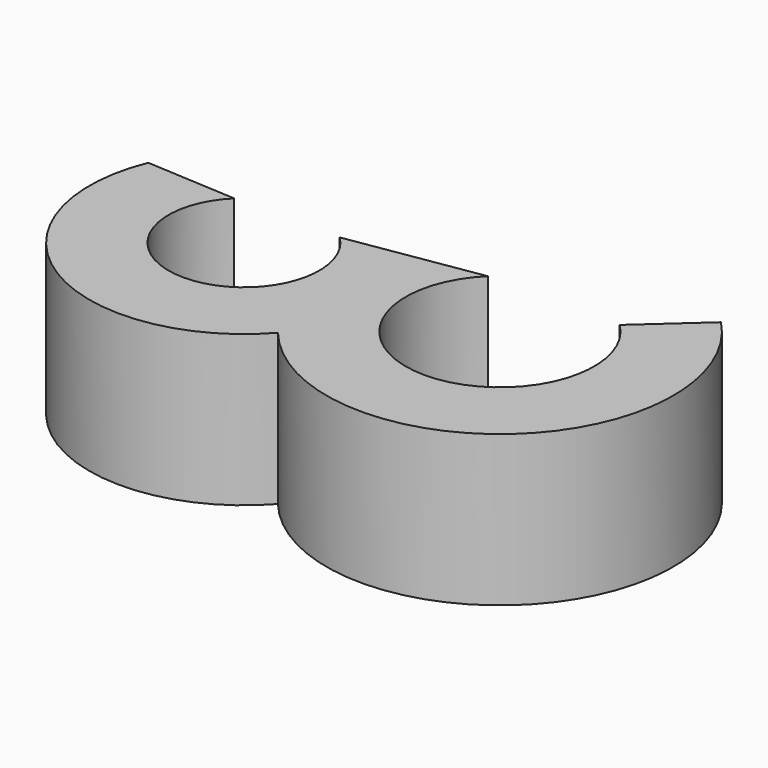
from build123d import *

# Parameters (mm, degrees)
PAD_DEPTH = 4


with BuildPart() as part:
    # Sketch → Pad (new body)
    with BuildSketch(Plane.XY):
        with BuildLine():
            ThreePointArc((-1.4, 2.428286), (0, -1), (1.4, 2.428286))
            Line((1.4, 2.428286), (4.883254, 2.985357))
            ThreePointArc((4.883254, 2.985357), (6.633254, -1.3), (8.383254, 2.985357))
            Line((8.383254, 2.985357), (9.946507, 4.39098))
            ThreePointArc((3.073564, -1.713522), (9.687991, -2.23927), (9.946507, 4.39098))
            ThreePointArc((-3.789459, 2.565248), (-2.169123, -2.479211), (3.073564, -1.713522))
            Line((-3.789459, 2.565248), (-1.4, 2.428286))
        make_face()
    extrude(amount=PAD_DEPTH)


solid = part.part
